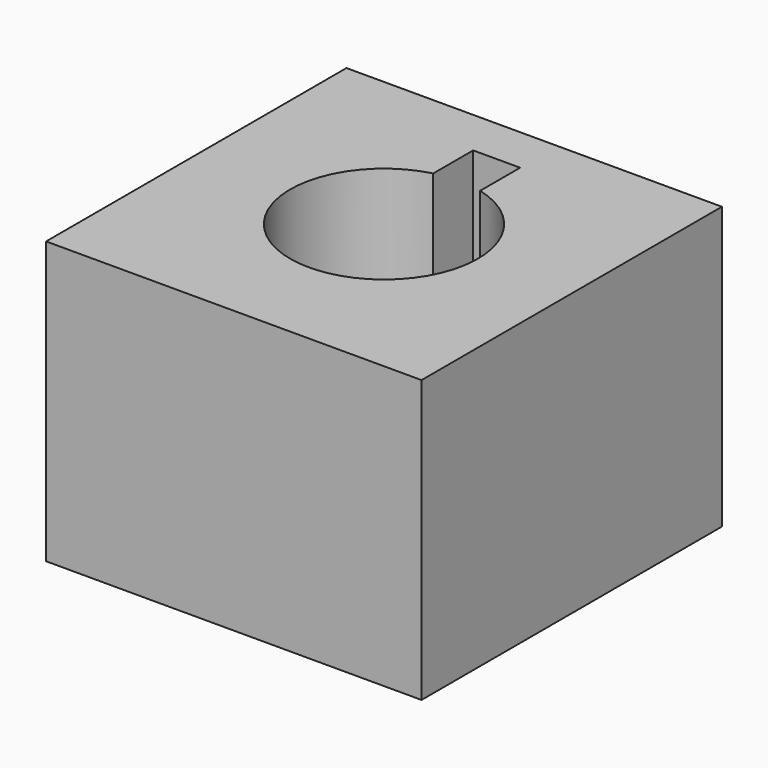
from build123d import *

# Parameters (mm, degrees)
F0_W     = 101.6
F0_H     = 101.6
F1_DEPTH = 76.2


with BuildPart() as f1:
    # F0 (on Top) → F1 (new body)
    with BuildSketch(Plane.XY):
        Rectangle(F0_W, F0_H)
        with BuildLine():
            Line((-6.35, 24.593444), (-6.35, 38.1))
            Line((-6.35, 38.1), (6.35, 38.1))
            Line((6.35, 38.1), (6.35, 24.593444))
            ThreePointArc((6.35, 24.593444), (0, -25.4), (-6.35, 24.593444))
        make_face(mode=Mode.SUBTRACT)
    extrude(amount=F1_DEPTH)


solid = f1.part
